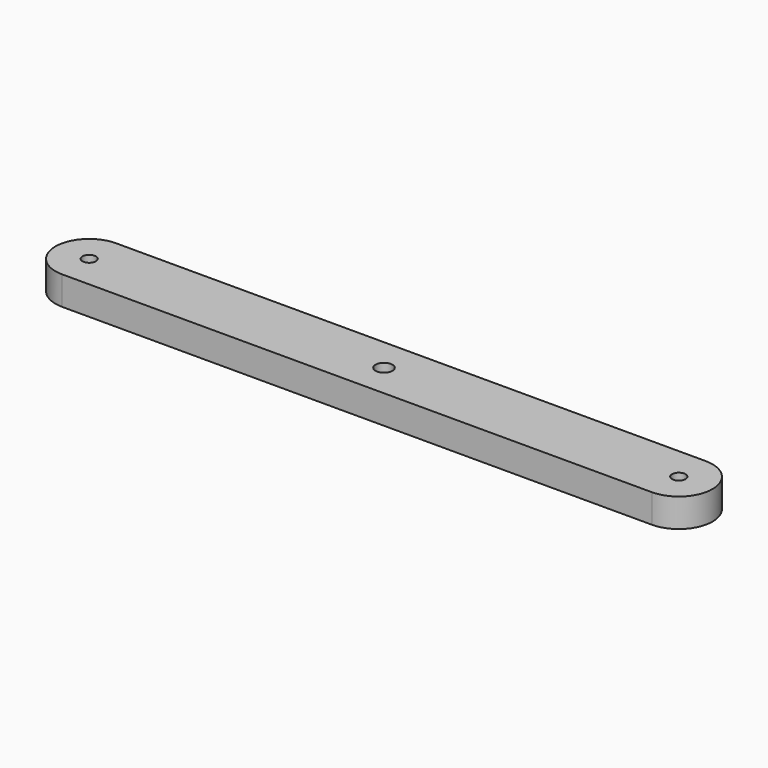
from build123d import *

# Parameters (mm, degrees)
F0_R     = 4
F0_R_2   = 5
F1_DEPTH = 8.5


with BuildPart() as f1:
    # F0 (on Top) → F1 (new body, symmetric)
    with BuildSketch(Plane.XY):
        with BuildLine():
            ThreePointArc((175, -20), (195, 0), (175, 20))
            Line((175, 20), (-175, 20))
            ThreePointArc((-175, 20), (-195, 0), (-175, -20))
            Line((-175, -20), (175, -20))
        make_face()
        with Locations((-175, 0)):
            Circle(F0_R, mode=Mode.SUBTRACT)
        Circle(F0_R_2, mode=Mode.SUBTRACT)
        with Locations((175, 0)):
            Circle(F0_R, mode=Mode.SUBTRACT)
    extrude(amount=F1_DEPTH, both=True)


solid = f1.part
